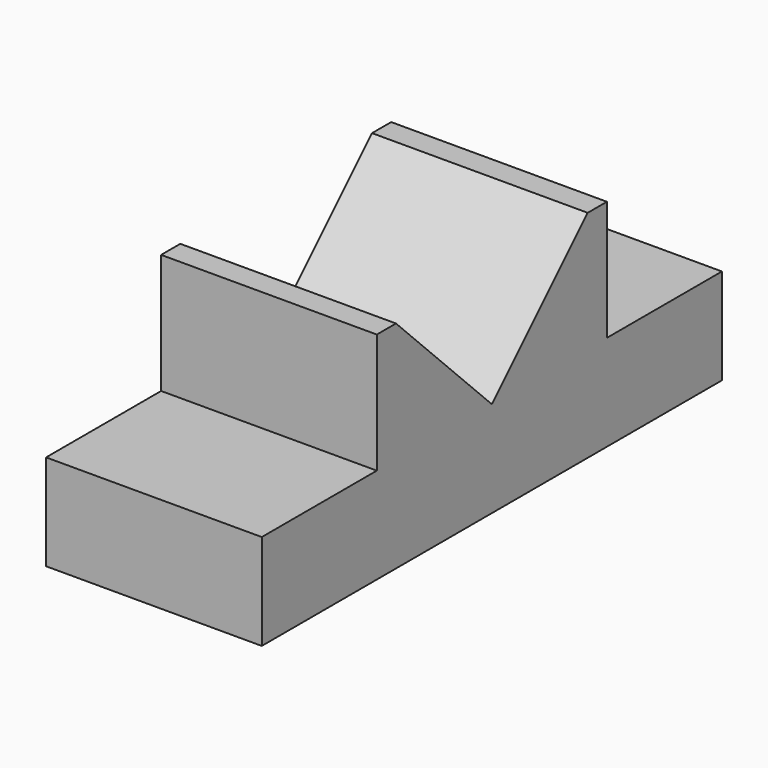
from build123d import *

# Parameters (mm, degrees)
PAD_DEPTH = 22.5


with BuildPart() as part:
    # CopySketch → Pad (new body, symmetric)
    with BuildSketch(Plane.YZ):
        Polygon((-60, 0), (60, 0), (60, 20), (30, 20), (30, 45), (25, 45), (0, 20), (-25, 45), (-30, 45), (-30, 20), (-60, 20), align=None)
    extrude(amount=PAD_DEPTH, both=True)


solid = part.part
